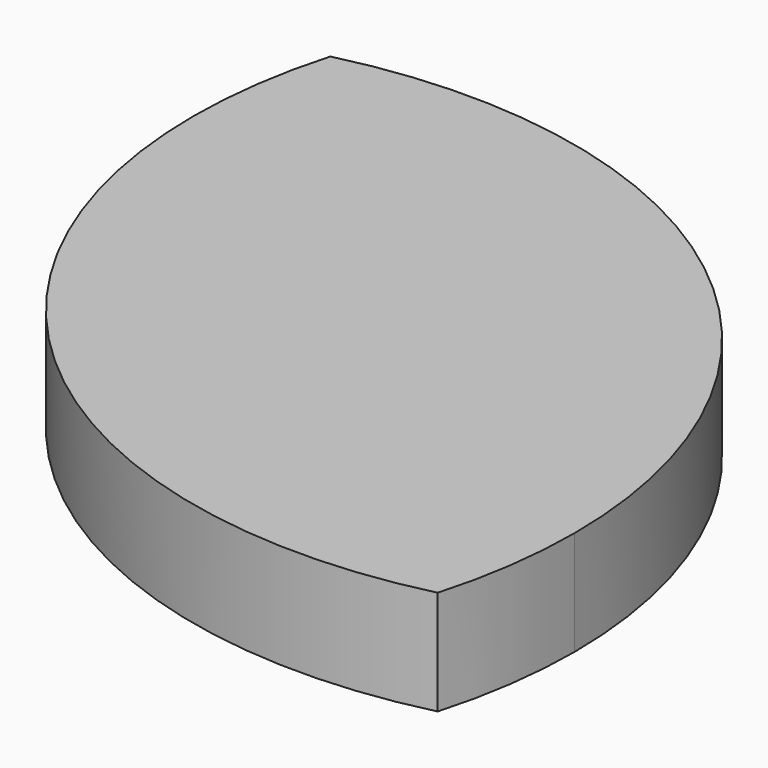
from build123d import *

# Parameters (mm, degrees)
F1_DEPTH = 10


with BuildPart() as f1:
    # F0 (on Top) → F1 (new body)
    with BuildSketch(Plane.XY):
        with BuildLine():
            ThreePointArc((48.3225322578, -13.9091775972), (49.7916026738, -7.0234356563), (50.2845139704, 0))
            ThreePointArc((50.2845139704, 0), (30.9782750371, 39.6090749825), (-12.115564984, 48.8031293091))
            ThreePointArc((-12.115564984, 48.8031293091), (0, 0), (48.3225322578, -13.9091775972))
        make_face()
    extrude(amount=F1_DEPTH)


solid = f1.part
